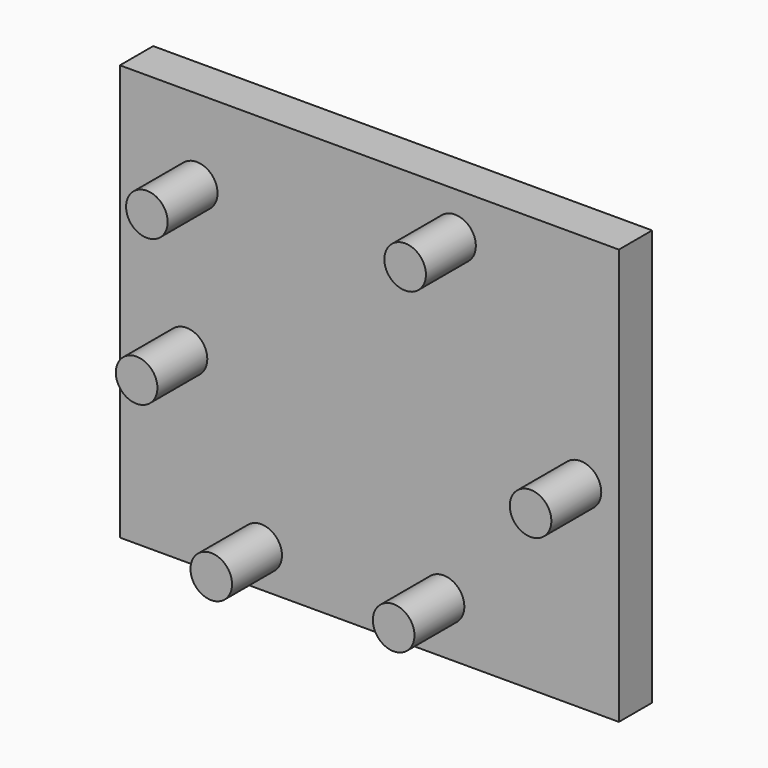
from build123d import *

# Parameters (mm, degrees)
F0_W     = 120
F0_H     = 100
F1_DEPTH = 10
F2_R     = 5
F3_DEPTH = 15


with BuildPart() as f1:
    # F0 (on Front) → F1 (new body)
    with BuildSketch(Plane.XZ):
        Rectangle(F0_W, F0_H)
    extrude(amount=F1_DEPTH)

    # F2 (on face) → F3 (join)
    with BuildSketch(Plane.XZ.offset(10)):
        with Locations((-41.517758, 30.551978)):
            Circle(F2_R)
        with Locations((-43.986055, -5.363304)):
            Circle(F2_R)
        with Locations((-26.031511, -41.107316)):
            Circle(F2_R)
        with Locations((17.834636, -37.677866)):
            Circle(F2_R)
        with Locations((50.760479, -2.750959)):
            Circle(F2_R)
        with Locations((20.600477, 39.609097)):
            Circle(F2_R)
    extrude(amount=F3_DEPTH)


solid = f1.part
